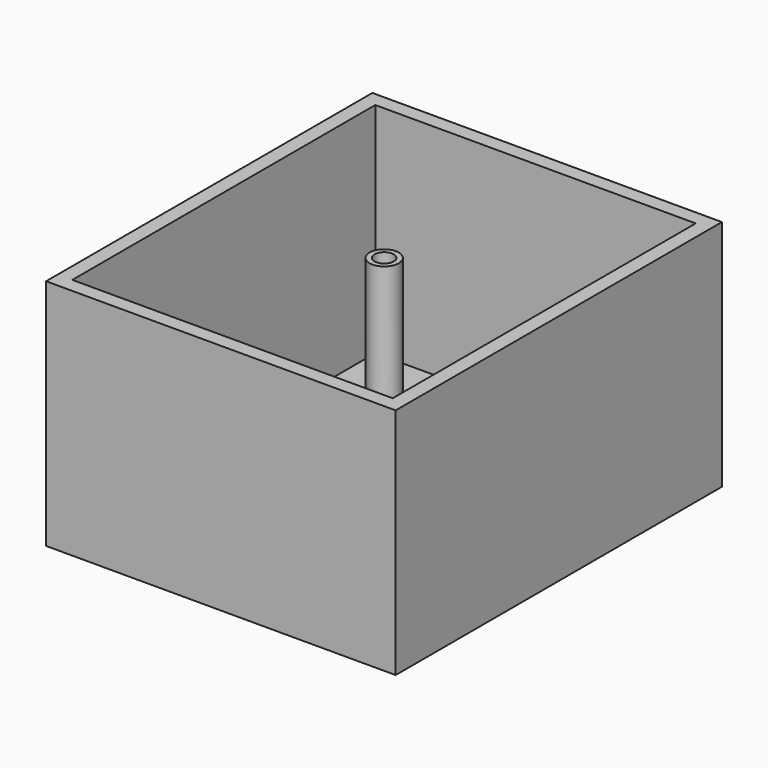
from build123d import *

# Parameters (mm, degrees)
F1_W     = 60
F1_H     = 70
F2_DEPTH = 40
F3_T     = -2.5
F4_R     = 1.65
F4_R_2   = 2.5
F5_DEPTH = 20


with BuildPart() as f2:
    # F1 (on Top) → F2 (new body)
    with BuildSketch(Plane.XY):
        Rectangle(F1_W, F1_H)
    extrude(amount=F2_DEPTH)

    # F3
    f3_openings = [f2.faces().sort_by_distance(p)[0] for p in [
        (0, 0, 40),
    ]]
    offset(amount=F3_T, openings=f3_openings)

    # F4 (on face) → F5 (join)
    with BuildSketch(Plane.XY.offset(2.5)):
        with Locations((-23.15, -24.85)):
            Circle(F4_R)
        with Locations((19.85, 24.85)):
            Circle(F4_R)
        with Locations((20.5029603094, -26.5606511384)):
            Circle(F4_R)
        with Locations((-19.85, 24.85)):
            Circle(F4_R_2)
        with Locations((-19.85, 24.85)):
            Circle(F4_R, mode=Mode.SUBTRACT)
    extrude(amount=F5_DEPTH)


solid = f2.part
